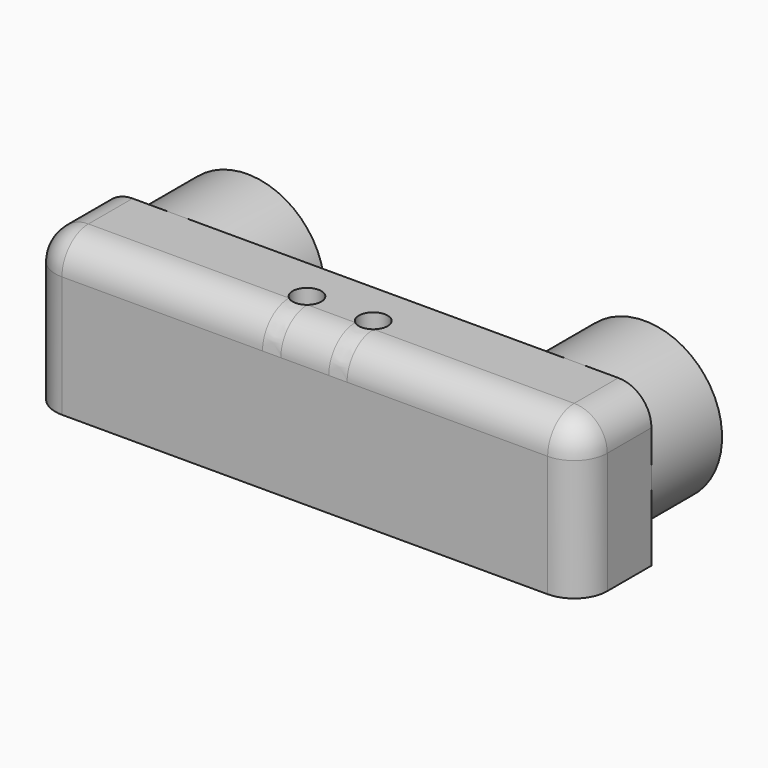
from build123d import *

# Parameters (mm, degrees)
SKETCH_W     = 50
SKETCH_H     = 8
SKETCH_R     = 1.3
PAD_DEPTH    = 14
SKETCH001_R  = 7
PAD001_DEPTH = 8
SKETCH002_R  = 4
POCKET_DEPTH = 5
FILLET_R     = 3


with BuildPart() as part:
    # Sketch → Pad (new body)
    with BuildSketch(Plane.XY):
        with Locations((-25, 4)):
            Rectangle(SKETCH_W, SKETCH_H)
        with Locations((-28, 4)):
            Circle(SKETCH_R, mode=Mode.SUBTRACT)
        with Locations((-22, 4)):
            Circle(SKETCH_R, mode=Mode.SUBTRACT)
    extrude(amount=PAD_DEPTH)

    # Sketch001 (on Face1 of Pad) → Pad001 (join)
    with BuildSketch(Plane(origin=(0, 8, 0), x_dir=(-1, 0, 0), z_dir=(0, 1, 0))):
        with Locations((7, 7)):
            Circle(SKETCH001_R)
        with Locations((43, 7)):
            Circle(SKETCH001_R)
    extrude(amount=PAD001_DEPTH)

    # Sketch002 (on Face5 of Pad001) → Pocket (cut)
    with BuildSketch(Plane(origin=(0, 16, 0), x_dir=(-1, 0, 0), z_dir=(0, 1, 0))):
        with Locations((5, 7)):
            Circle(SKETCH002_R)
        with Locations((45, 7)):
            Circle(SKETCH002_R)
    extrude(amount=-POCKET_DEPTH, mode=Mode.SUBTRACT)

    # Fillet
    fillet_edges = [part.edges().sort_by_distance(p)[0] for p in [
        (0, 0, 7),
        (-25, 0, 14),
        (-50, 0, 7),
        (0, 4, 14),
        (-50, 4, 14),
    ]]
    fillet(fillet_edges, radius=FILLET_R)


solid = part.part
